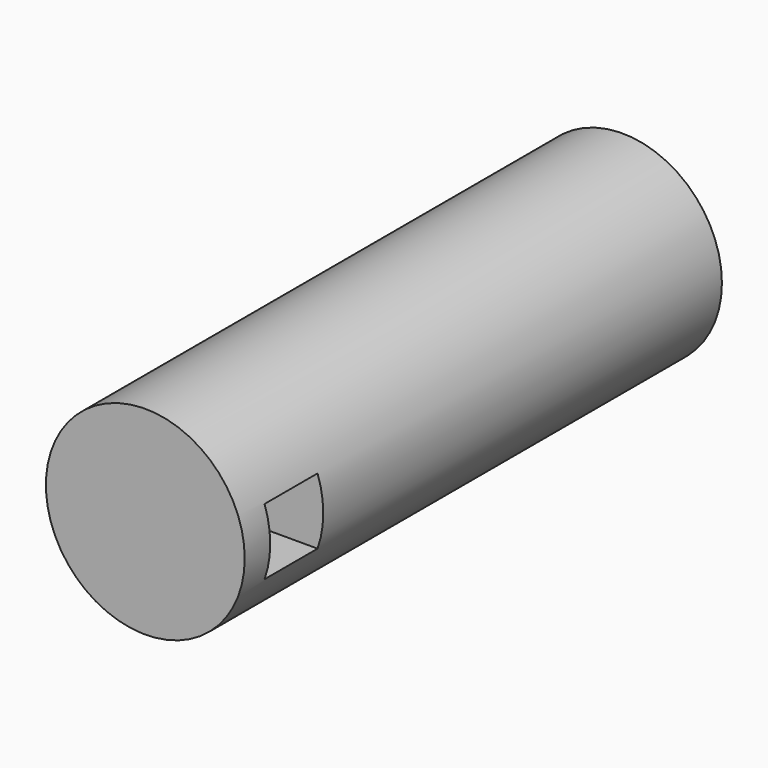
from build123d import *

# Parameters (mm, degrees)
F0_R          = 30
F1_DEPTH      = 180
F2_W          = 20
F2_H          = 20
F3_DEPTH      = 52
F3_DEPTH_BACK = 50


with BuildPart() as f1:
    # F0 (on Front) → F1 (new body)
    with BuildSketch(Plane.XZ):
        Circle(F0_R)
    extrude(amount=F1_DEPTH)

    # F2 (on Right) → F3 (cut, two sides)
    with BuildSketch(Plane.YZ) as f3_sk:
        with Locations((-160.3775612974, 0)):
            Rectangle(F2_W, F2_H)
    extrude(amount=-F3_DEPTH, mode=Mode.SUBTRACT)
    extrude(f3_sk.sketch, amount=F3_DEPTH_BACK, mode=Mode.SUBTRACT)


solid = f1.part
